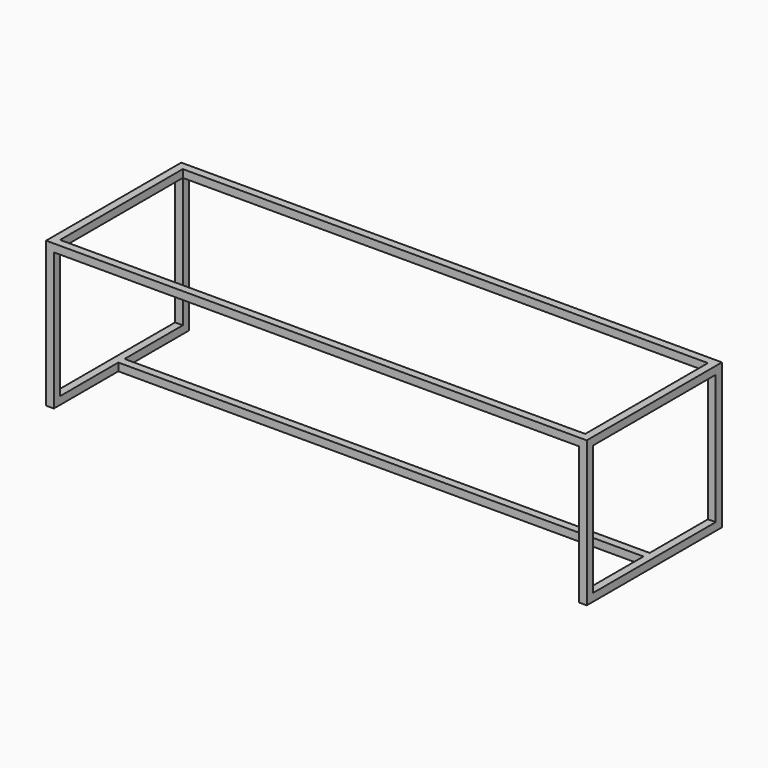
from build123d import *

# Parameters (mm, degrees)
SKETCH_W         = 500
SKETCH_H         = 430
SKETCH_W_2       = 454
SKETCH_H_2       = 384
EXTRUDE_DEPTH    = 23
SKETCH001_W      = 23
SKETCH001_H      = 23
EXTRUDE001_DEPTH = 1554


with BuildPart() as extrude_body:
    # Sketch → Extrude (new body)
    with BuildSketch(Plane.YZ):
        with Locations((250, 215)):
            Rectangle(SKETCH_W, SKETCH_H)
        with Locations((250, 215)):
            Rectangle(SKETCH_W_2, SKETCH_H_2, mode=Mode.SUBTRACT)
    extrude(amount=EXTRUDE_DEPTH)


with BuildPart() as extrude001:
    # Clone base: copy of Extrude body
    add(extrude_body.part)


with BuildPart() as extrude001_1:
    # Clone placement: moved
    add(extrude001.part.moved(Location((1577, 0, 0))))


with BuildPart() as extrude002:
    # Sketch001 → Extrude001 (new body)
    with BuildSketch(Plane.YZ):
        with Locations((11.5, 11.5)):
            Rectangle(SKETCH001_W, SKETCH001_H)
    extrude(amount=EXTRUDE001_DEPTH)


with BuildPart() as extrude002_1:
    # Extrude001 placement: moved
    add(extrude002.part.moved(Location((23, 238.5, 0))))


with BuildPart() as extrude003:
    # Clone001 base: copy of Extrude002
    add(extrude002_1.part)


with BuildPart() as extrude003_1:
    # Clone001 placement: moved
    add(extrude003.part.moved(Location((0, -238.5, 407))))


with BuildPart() as extrude004:
    # Clone002 base: copy of Extrude003
    add(extrude003_1.part)


with BuildPart() as extrude004_1:
    # Clone002 placement: moved
    add(extrude004.part.moved(Location((0, 477, 0))))


with BuildPart() as fusion:
    # Fusion base: copy of Extrude body
    add(extrude_body.part)

    # Fusion: union Extrude001, Extrude002, Extrude003, Extrude004
    add(extrude001_1.part)
    add(extrude002_1.part)
    add(extrude003_1.part)
    add(extrude004_1.part)


solid = fusion.part
